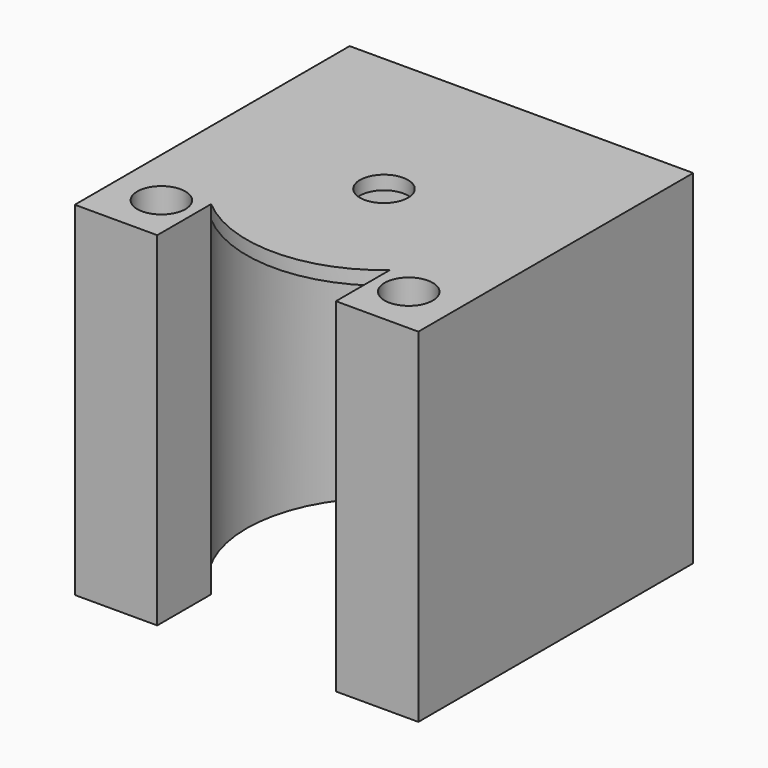
from build123d import *

# Parameters (mm, degrees)
F0_R     = 1.75
F1_DEPTH = 25
F2_DEPTH = 24


with BuildPart() as f1:
    # F0 (on Top) → F1 (new body)
    with BuildSketch(Plane.XY):
        with BuildLine():
            Line((6.5, -12.5), (12.5, -12.5))
            Line((12.5, -12.5), (12.5, 12.5))
            Line((12.5, 12.5), (-12.5, 12.5))
            Line((-12.5, 12.5), (-12.5, -12.5))
            Line((-12.5, -12.5), (-6.5, -12.5))
            Line((-6.5, -12.5), (-6.5, -7.5993420768))
            ThreePointArc((-6.5, -7.5993420768), (-4.1833001327, 9.0829510623), (10, 0))
            ThreePointArc((10, 0), (9.0829510623, -4.1833001327), (6.5, -7.5993420768))
            Line((6.5, -7.5993420768), (6.5, -12.5))
        make_face()
        with Locations((-9, -9)):
            Circle(F0_R, mode=Mode.SUBTRACT)
        with Locations((9, -9)):
            Circle(F0_R, mode=Mode.SUBTRACT)
        with BuildLine():
            ThreePointArc((-6.5, -7.5993420768), (0, -10), (6.5, -7.5993420768))
            ThreePointArc((6.5, -7.5993420768), (9.0829510623, -4.1833001327), (10, 0))
            ThreePointArc((10, 0), (-4.1833001327, 9.0829510623), (-6.5, -7.5993420768))
        make_face()
        Circle(F0_R, mode=Mode.SUBTRACT)
    extrude(amount=F1_DEPTH)

    # F0 (on Top) → F2 (cut)
    with BuildSketch(Plane.XY):
        with BuildLine():
            ThreePointArc((-6.5, -7.5993420768), (0, -10), (6.5, -7.5993420768))
            ThreePointArc((6.5, -7.5993420768), (9.0829510623, -4.1833001327), (10, 0))
            ThreePointArc((10, 0), (-4.1833001327, 9.0829510623), (-6.5, -7.5993420768))
        make_face()
        Circle(F0_R, mode=Mode.SUBTRACT)
    extrude(amount=F2_DEPTH, mode=Mode.SUBTRACT)


solid = f1.part
